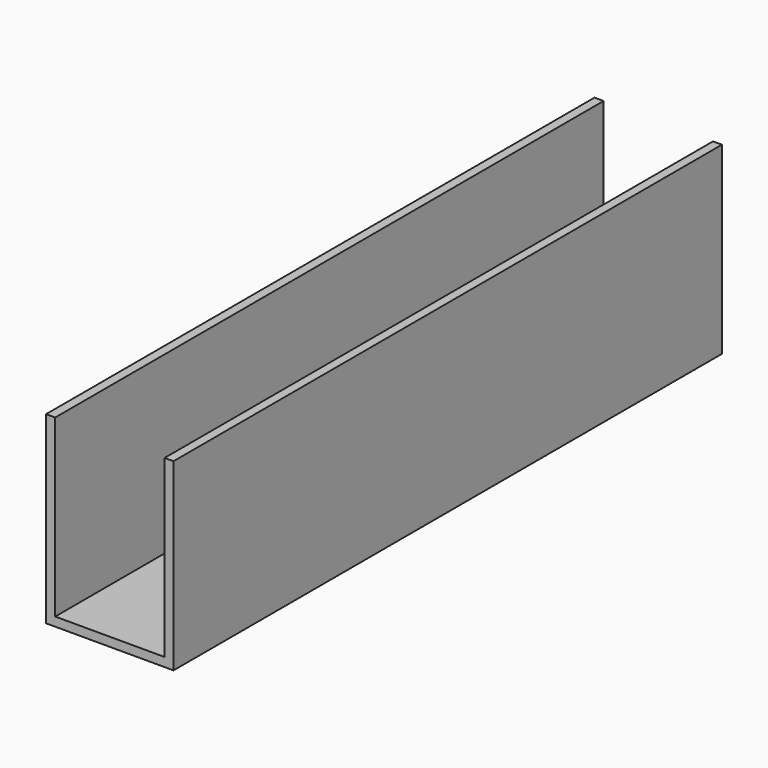
from build123d import *

# Parameters (mm, degrees)
F0_W     = 28.999942
F0_H     = 41.91
F1_DEPTH = 155.999942
F2_W     = 24.892
F2_H     = 39.878
F3_DEPTH = 156.000942


with BuildPart() as f1:
    # F0 (on Front) → F1 (new body)
    with BuildSketch(Plane.XZ):
        with Locations((14.499971, 20.955)):
            Rectangle(F0_W, F0_H)
    extrude(amount=F1_DEPTH)

    # F2 (on face) → F3 (cut, through all)
    with BuildSketch(Plane(origin=(0, 0, 0), x_dir=(-1, 0, 0), z_dir=(0, 1, 0))):
        with Locations((-14.521942, 21.971)):
            Rectangle(F2_W, F2_H)
    extrude(amount=-F3_DEPTH, mode=Mode.SUBTRACT)


solid = f1.part
